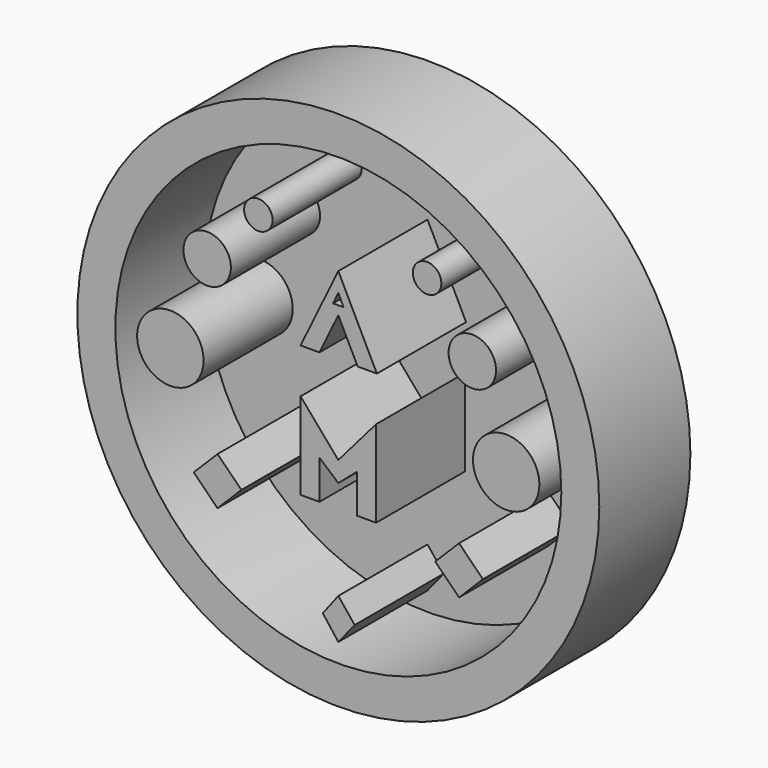
from build123d import *

# Parameters (mm, degrees)
F0_R     = 27.5
F0_R_2   = 23.5
F1_DEPTH = 12
F2_R     = 27.467617
F3_DEPTH = 0.254
F4_R     = 3.5
F4_R_2   = 2.5
F4_R_3   = 1.5
F5_DEPTH = 12
F7_DEPTH = 12
F9_DEPTH = 12


with BuildPart() as f1:
    # F0 (on Front) → F1 (new body)
    with BuildSketch(Plane.XZ):
        Circle(F0_R)
        Circle(F0_R_2, mode=Mode.SUBTRACT)
    extrude(amount=F1_DEPTH)

    # F2 (on Front) → F3 (join)
    with BuildSketch(Plane.XZ):
        Circle(F2_R)
    extrude(amount=F3_DEPTH)

    # F4 (on Front) → F5 (join)
    with BuildSketch(Plane.XZ):
        with Locations((17.688596, 0.011209)):
            Circle(F4_R)
        with Locations((-17.700713, 0)):
            Circle(F4_R)
        with Locations((-13.821965, 9.565342)):
            Circle(F4_R_2)
        with Locations((-8.427355, 15.38721)):
            Circle(F4_R_3)
        with Locations((9.352645, 15.305277)):
            Circle(F4_R_3)
        with Locations((14.118035, 9.117616)):
            Circle(F4_R_2)
    extrude(amount=F5_DEPTH)

    # F6 (on Front) → F7 (join)
    with BuildSketch(Plane.XZ):
        Polygon((4.064, 4.721983), (0, 12.913237), (-3.977783, 4.721983), (-1.988892, 4.721983), (0, 8.81761), (2.032, 4.721983), align=None)
        Polygon((-0.554775, 9.738115), (0, 10.880535), (0.554775, 9.738115), align=None, mode=Mode.SUBTRACT)
        Polygon((0, -4.619357), (-3.977783, 0), (-3.977783, -9.144), (-1.988892, -9.144), (-1.988892, -5.041345), (0, -6.754003), (1.988892, -5.041345), (1.988892, -9.144), (3.977783, -9.144), (3.977783, 0), align=None)
    extrude(amount=F7_DEPTH)

    # F8 (on Front) → F9 (join)
    with BuildSketch(Plane.XZ):
        Polygon((-10.213404, -10.713155), (-12.727875, -8.198683), (-15.242347, -10.713155), (-12.727875, -13.227626), align=None)
        Polygon((12.727869, -8.198683), (10.213398, -10.713155), (12.727869, -13.227626), (15.242341, -10.713155), align=None)
        Polygon((1.725041, -19.36011), (0, -17.221719), (-1.635694, -19.36011), (0, -21.498501), align=None)
    extrude(amount=F9_DEPTH)


solid = f1.part
